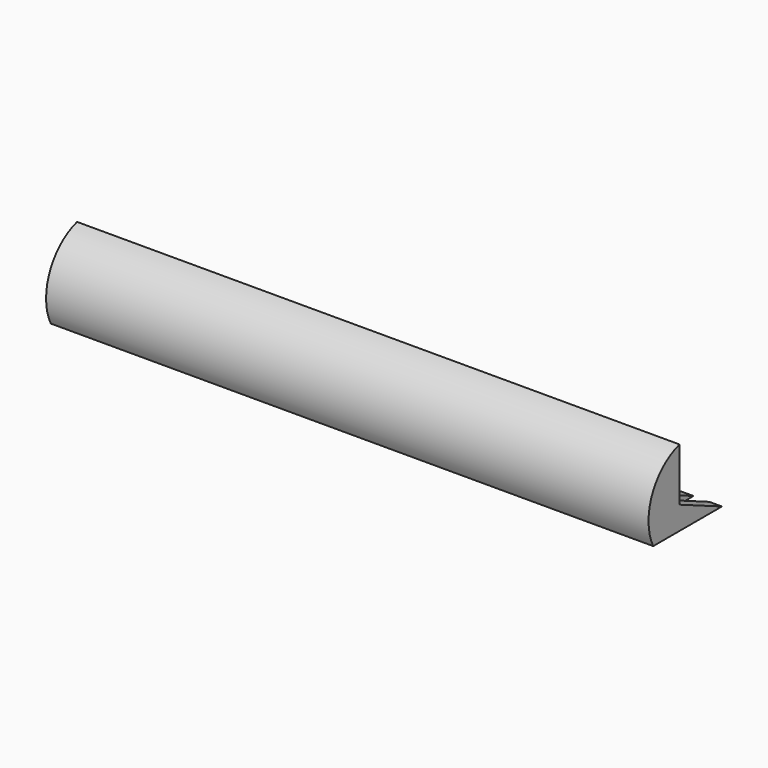
from build123d import *

# Parameters (mm, degrees)
F1_DEPTH = 242.57
F2_W     = 6.35
F2_H     = 17.78
F3_DEPTH = 30.683568


with BuildPart() as f1:
    # F0 (on Right) → F1 (new body)
    with BuildSketch(Plane.YZ):
        with BuildLine():
            Line((21.360137, 0), (0, 9.322432))
            Line((0, 9.322432), (0, 30.682568))
            ThreePointArc((0, 30.682568), (-13.802055, 18.43997), (-13.214322, 0))
            Line((-13.214322, 0), (21.360137, 0))
        make_face()
    extrude(amount=F1_DEPTH)

    # F2 (on face) → F3 (cut, through all)
    with BuildSketch(Plane(origin=(0, 0, 0), x_dir=(1, 0, 0), z_dir=(0, 0, -1))):
        with Locations((3.175, -12.470137)):
            Rectangle(F2_W, F2_H)
        with Locations((19.685, -12.470137)):
            Rectangle(F2_W, F2_H)
        with Locations((36.195, -12.470137)):
            Rectangle(F2_W, F2_H)
        with Locations((52.705, -12.470137)):
            Rectangle(F2_W, F2_H)
        with Locations((69.215, -12.470137)):
            Rectangle(F2_W, F2_H)
        with Locations((85.725, -12.470137)):
            Rectangle(F2_W, F2_H)
        with Locations((102.235, -12.470137)):
            Rectangle(F2_W, F2_H)
        with Locations((118.745, -12.470137)):
            Rectangle(F2_W, F2_H)
        with Locations((135.255, -12.470137)):
            Rectangle(F2_W, F2_H)
        with Locations((151.765, -12.470137)):
            Rectangle(F2_W, F2_H)
        with Locations((168.275, -12.470137)):
            Rectangle(F2_W, F2_H)
        with Locations((184.785, -12.470137)):
            Rectangle(F2_W, F2_H)
        with Locations((201.295, -12.470137)):
            Rectangle(F2_W, F2_H)
        with Locations((217.805, -12.470137)):
            Rectangle(F2_W, F2_H)
        with Locations((234.315, -12.470137)):
            Rectangle(F2_W, F2_H)
    extrude(amount=-F3_DEPTH, mode=Mode.SUBTRACT)


solid = f1.part
